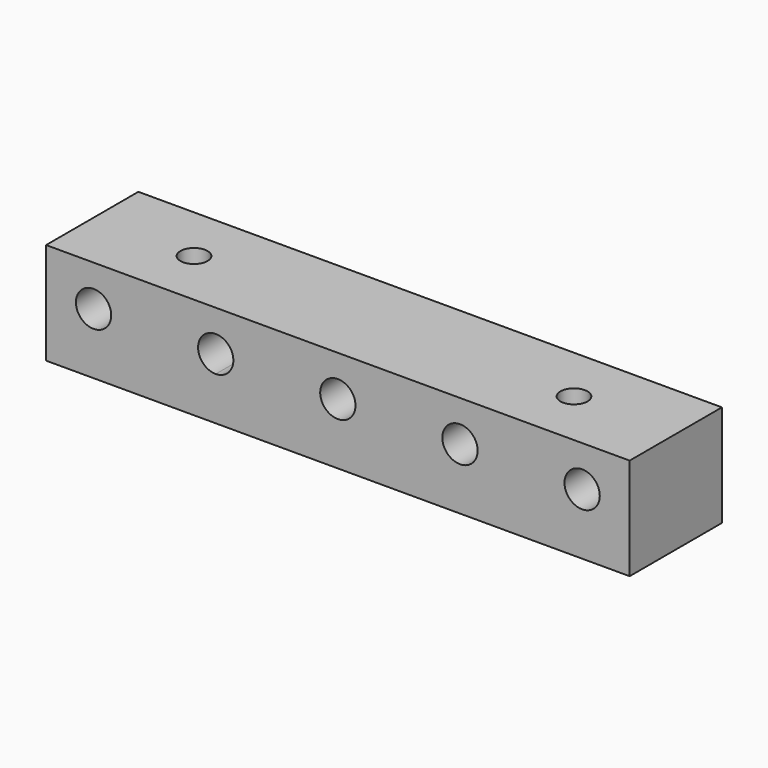
from build123d import *

# Parameters (mm, degrees)
F0_W     = 86
F0_H     = 17
F0_R     = 2
F1_DEPTH = 15
F2_R     = 2.6
F3_DEPTH = 17.001


with BuildPart() as f1:
    # F0 (on Top) → F1 (new body)
    with BuildSketch(Plane.XY):
        Rectangle(F0_W, F0_H)
        with Locations((-28, 0)):
            Circle(F0_R, mode=Mode.SUBTRACT)
        with Locations((28, 0)):
            Circle(F0_R, mode=Mode.SUBTRACT)
    extrude(amount=F1_DEPTH)

    # F2 (on face) → F3 (cut, through all)
    with BuildSketch(Plane.XZ.offset(8.5)):
        with Locations((-36, 9)):
            Circle(F2_R)
        with BuildLine():
            ThreePointArc((-18, 11.6), (-20.6, 9), (-18, 6.4))
            Line((-18, 6.4), (-18, 11.6))
        make_face()
        with BuildLine():
            Line((-18, 11.6), (-18, 6.4))
            ThreePointArc((-18, 6.4), (-16.1615223689, 7.1615223689), (-15.4, 9))
            ThreePointArc((-15.4, 9), (-16.1615223689, 10.8384776311), (-18, 11.6))
        make_face()
        with Locations((0, 9)):
            Circle(F2_R)
        with Locations((18, 9)):
            Circle(F2_R)
        with Locations((36, 9)):
            Circle(F2_R)
    extrude(amount=-F3_DEPTH, mode=Mode.SUBTRACT)


solid = f1.part
